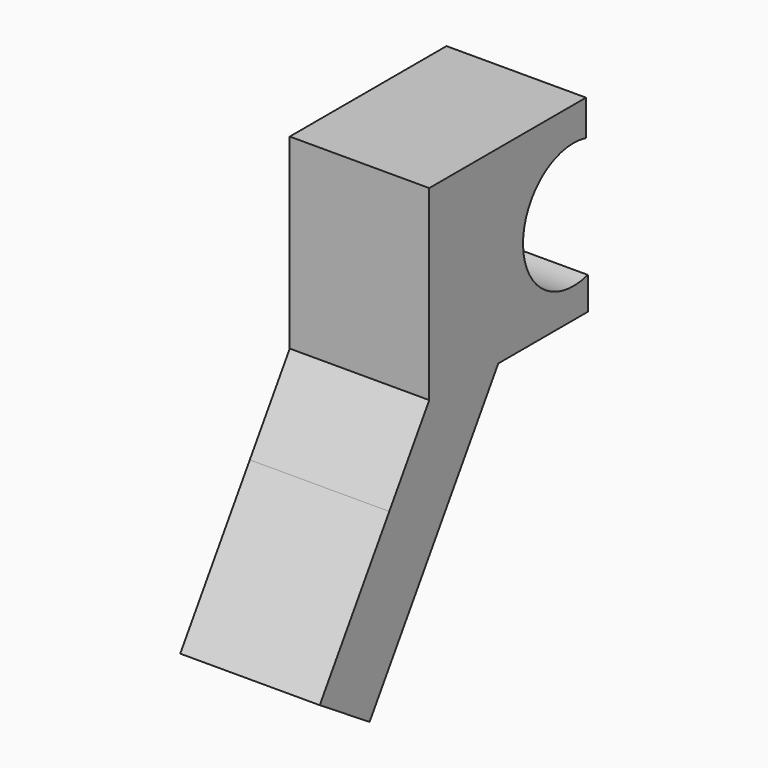
from build123d import *

# Parameters (mm, degrees)
F1_DEPTH = 17.78


with BuildPart() as f1:
    # F0 (on Right) → F1 (new body, symmetric)
    with BuildSketch(Plane.YZ):
        with BuildLine():
            Line((-67.38431, -34.472395), (-51.495798, -44.68644))
            Line((-51.495798, -44.68644), (-26.808784, -6.284426))
            Line((-26.808784, -6.284426), (-10.501343, 19.082699))
            Line((-10.501343, 19.082699), (18.016437, 19.082699))
            Line((18.016437, 19.082699), (18.016437, 27.379308))
            ThreePointArc((18.016437, 27.379308), (-2.608516, 42.469), (17.44899, 58.305159))
            Line((17.44899, 58.305159), (17.44899, 67.38431))
            Line((17.44899, 67.38431), (-32.492471, 67.38431))
            Line((-32.492471, 67.38431), (-32.492471, 19.803789))
            Line((-32.492471, 19.803789), (-45.22348, 0))
            Line((-45.22348, 0), (-67.38431, -34.472395))
        make_face()
    extrude(amount=F1_DEPTH, both=True)


solid = f1.part
